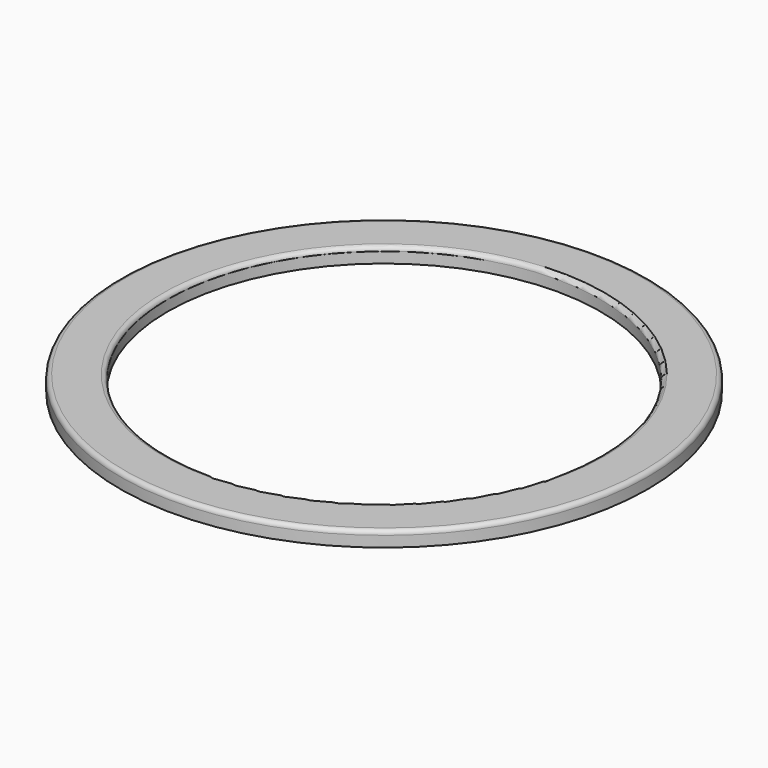
from build123d import *

# Parameters (mm, degrees)
F0_R     = 122.5
F1_DEPTH = 7
F2_R     = 100.5
F3_DEPTH = 25
F4_R     = 2


with BuildPart() as f1:
    # F0 (on Top) → F1 (new body)
    with BuildSketch(Plane.XY):
        Circle(F0_R)
    extrude(amount=F1_DEPTH)

    # F2 (on face) → F3 (cut)
    with BuildSketch(Plane.XY.offset(7)):
        Circle(F2_R)
    extrude(amount=-F3_DEPTH, mode=Mode.SUBTRACT)

    # F4
    f4_edges = [f1.edges().sort_by_distance(p)[0] for p in [
        (-122.5, 0, 7),
        (-100.5, 0, 7),
    ]]
    fillet(f4_edges, radius=F4_R)


solid = f1.part
